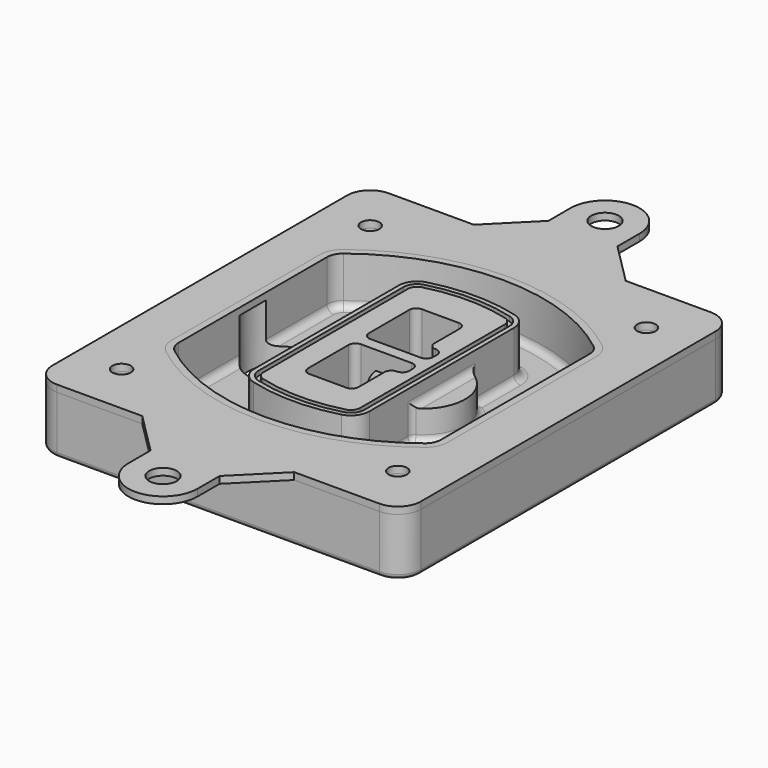
from build123d import *

# Parameters (mm, degrees)
F0_R      = 4
F1_DEPTH  = 25
F2_DEPTH  = 3
F3_DEPTH  = 18
F5_DEPTH  = 21
F6_DEPTH  = 2
F8_DEPTH  = 20
F9_DEPTH  = 16
F10_DEPTH = 25
F7_R      = 6
F7_R_2    = 4
F11_DEPTH = 6
F13_DEPTH = 9
F14_R     = 3
F15_R     = 2
F16_R     = 6
F16_R_2   = 4
F17_DEPTH = 3
F18_DEPTH = 3
F19_DEPTH = 3
F21_DEPTH = 3


with BuildPart() as f1:
    # F0 (on Top) → F1 (new body)
    with BuildSketch(Plane.XY):
        with BuildLine():
            ThreePointArc((-80, -80), (-77.0710678119, -87.0710678119), (-70, -90))
            Line((-70, -90), (70, -90))
            ThreePointArc((70, -90), (77.0710678119, -87.0710678119), (80, -80))
            Line((80, -80), (80, 80))
            ThreePointArc((80, 80), (77.0710678119, 87.0710678119), (70, 90))
            Line((70, 90), (-70, 90))
            ThreePointArc((-70, 90), (-77.0710678119, 87.0710678119), (-80, 80))
            Line((-80, 80), (-80, -80))
        make_face()
        with Locations((-60, -67.5)):
            Circle(F0_R, mode=Mode.SUBTRACT)
        with Locations((60, -67.5)):
            Circle(F0_R, mode=Mode.SUBTRACT)
        with Locations((-60, 67.5)):
            Circle(F0_R, mode=Mode.SUBTRACT)
        with BuildLine():
            ThreePointArc((-64, 40.2934422872), (-62.5820384798, 46.4328484224), (-58.6153846154, 51.3286200352))
            ThreePointArc((-58.6153846154, 51.3286200352), (0, 71.5), (58.6153846154, 51.3286200352))
            ThreePointArc((58.6153846154, 51.3286200352), (62.5820384798, 46.4328484224), (64, 40.2934422872))
            Line((64, 40.2934422872), (64, -40.2934422872))
            ThreePointArc((64, -40.2934422872), (62.5820384798, -46.4328484224), (58.6153846154, -51.3286200352))
            ThreePointArc((58.6153846154, -51.3286200352), (0, -71.5), (-58.6153846154, -51.3286200352))
            ThreePointArc((-58.6153846154, -51.3286200352), (-62.5820384798, -46.4328484224), (-64, -40.2934422872))
            Line((-64, -40.2934422872), (-64, 40.2934422872))
        make_face(mode=Mode.SUBTRACT)
        with Locations((60, 67.5)):
            Circle(F0_R, mode=Mode.SUBTRACT)
        with BuildLine():
            ThreePointArc((58.6153846154, 51.3286200352), (0, 71.5), (-58.6153846154, 51.3286200352))
            ThreePointArc((-58.6153846154, 51.3286200352), (-62.5820384798, 46.4328484224), (-64, 40.2934422872))
            Line((-64, 40.2934422872), (-64, -40.2934422872))
            ThreePointArc((-64, -40.2934422872), (-62.5820384798, -46.4328484224), (-58.6153846154, -51.3286200352))
            ThreePointArc((-58.6153846154, -51.3286200352), (0, -71.5), (58.6153846154, -51.3286200352))
            ThreePointArc((58.6153846154, -51.3286200352), (62.5820384798, -46.4328484224), (64, -40.2934422872))
            Line((64, -40.2934422872), (64, 40.2934422872))
            ThreePointArc((64, 40.2934422872), (62.5820384798, 46.4328484224), (58.6153846154, 51.3286200352))
        make_face()
        with BuildLine():
            Line((-60, -40.2934422872), (-60, 40.2934422872))
            ThreePointArc((-60, 40.2934422872), (-58.9871703427, 44.6787323838), (-56.1538461538, 48.1757121072))
            ThreePointArc((-56.1538461538, 48.1757121072), (0, 67.5), (56.1538461538, 48.1757121072))
            ThreePointArc((56.1538461538, 48.1757121072), (58.9871703427, 44.6787323838), (60, 40.2934422872))
            Line((60, 40.2934422872), (60, -40.2934422872))
            ThreePointArc((60, -40.2934422872), (58.9871703427, -44.6787323838), (56.1538461538, -48.1757121072))
            ThreePointArc((56.1538461538, -48.1757121072), (0, -67.5), (-56.1538461538, -48.1757121072))
            ThreePointArc((-56.1538461538, -48.1757121072), (-58.9871703427, -44.6787323838), (-60, -40.2934422872))
        make_face(mode=Mode.SUBTRACT)
        with BuildLine():
            ThreePointArc((-56.1538461538, 48.1757121072), (-58.9871703427, 44.6787323838), (-60, 40.2934422872))
            Line((-60, 40.2934422872), (-60, -40.2934422872))
            ThreePointArc((-60, -40.2934422872), (-58.9871703427, -44.6787323838), (-56.1538461538, -48.1757121072))
            ThreePointArc((-56.1538461538, -48.1757121072), (0, -67.5), (56.1538461538, -48.1757121072))
            ThreePointArc((56.1538461538, -48.1757121072), (58.9871703427, -44.6787323838), (60, -40.2934422872))
            Line((60, -40.2934422872), (60, 40.2934422872))
            ThreePointArc((60, 40.2934422872), (58.9871703427, 44.6787323838), (56.1538461538, 48.1757121072))
            ThreePointArc((56.1538461538, 48.1757121072), (0, 67.5), (-56.1538461538, 48.1757121072))
        make_face()
        with BuildLine():
            ThreePointArc((54.3076923077, 45.8110311612), (56.2910192399, 43.3631453548), (57, 40.2934422872))
            Line((57, 40.2934422872), (57, -40.2934422872))
            ThreePointArc((57, -40.2934422872), (56.2910192399, -43.3631453548), (54.3076923077, -45.8110311612))
            ThreePointArc((54.3076923077, -45.8110311612), (0, -64.5), (-54.3076923077, -45.8110311612))
            ThreePointArc((-54.3076923077, -45.8110311612), (-56.2910192399, -43.3631453548), (-57, -40.2934422872))
            Line((-57, -40.2934422872), (-57, 40.2934422872))
            ThreePointArc((-57, 40.2934422872), (-56.2910192399, 43.3631453548), (-54.3076923077, 45.8110311612))
            ThreePointArc((-54.3076923077, 45.8110311612), (0, 64.5), (54.3076923077, 45.8110311612))
        make_face(mode=Mode.SUBTRACT)
        with BuildLine():
            Line((57, -40.2934422872), (57, 40.2934422872))
            ThreePointArc((57, 40.2934422872), (56.2910192399, 43.3631453548), (54.3076923077, 45.8110311612))
            ThreePointArc((54.3076923077, 45.8110311612), (0, 64.5), (-54.3076923077, 45.8110311612))
            ThreePointArc((-54.3076923077, 45.8110311612), (-56.2910192399, 43.3631453548), (-57, 40.2934422872))
            Line((-57, 40.2934422872), (-57, -40.2934422872))
            ThreePointArc((-57, -40.2934422872), (-56.2910192399, -43.3631453548), (-54.3076923077, -45.8110311612))
            ThreePointArc((-54.3076923077, -45.8110311612), (0, -64.5), (54.3076923077, -45.8110311612))
            ThreePointArc((54.3076923077, -45.8110311612), (56.2910192399, -43.3631453548), (57, -40.2934422872))
        make_face()
    extrude(amount=-F1_DEPTH)

    # F0 (on Top) → F2 (join)
    with BuildSketch(Plane.XY):
        with BuildLine():
            ThreePointArc((-56.1538461538, 48.1757121072), (-58.9871703427, 44.6787323838), (-60, 40.2934422872))
            Line((-60, 40.2934422872), (-60, -40.2934422872))
            ThreePointArc((-60, -40.2934422872), (-58.9871703427, -44.6787323838), (-56.1538461538, -48.1757121072))
            ThreePointArc((-56.1538461538, -48.1757121072), (0, -67.5), (56.1538461538, -48.1757121072))
            ThreePointArc((56.1538461538, -48.1757121072), (58.9871703427, -44.6787323838), (60, -40.2934422872))
            Line((60, -40.2934422872), (60, 40.2934422872))
            ThreePointArc((60, 40.2934422872), (58.9871703427, 44.6787323838), (56.1538461538, 48.1757121072))
            ThreePointArc((56.1538461538, 48.1757121072), (0, 67.5), (-56.1538461538, 48.1757121072))
        make_face()
        with BuildLine():
            ThreePointArc((54.3076923077, 45.8110311612), (56.2910192399, 43.3631453548), (57, 40.2934422872))
            Line((57, 40.2934422872), (57, -40.2934422872))
            ThreePointArc((57, -40.2934422872), (56.2910192399, -43.3631453548), (54.3076923077, -45.8110311612))
            ThreePointArc((54.3076923077, -45.8110311612), (0, -64.5), (-54.3076923077, -45.8110311612))
            ThreePointArc((-54.3076923077, -45.8110311612), (-56.2910192399, -43.3631453548), (-57, -40.2934422872))
            Line((-57, -40.2934422872), (-57, 40.2934422872))
            ThreePointArc((-57, 40.2934422872), (-56.2910192399, 43.3631453548), (-54.3076923077, 45.8110311612))
            ThreePointArc((-54.3076923077, 45.8110311612), (0, 64.5), (54.3076923077, 45.8110311612))
        make_face(mode=Mode.SUBTRACT)
    extrude(amount=F2_DEPTH)

    # F0 (on Top) → F3 (cut)
    with BuildSketch(Plane.XY):
        with BuildLine():
            Line((57, -40.2934422872), (57, 40.2934422872))
            ThreePointArc((57, 40.2934422872), (56.2910192399, 43.3631453548), (54.3076923077, 45.8110311612))
            ThreePointArc((54.3076923077, 45.8110311612), (0, 64.5), (-54.3076923077, 45.8110311612))
            ThreePointArc((-54.3076923077, 45.8110311612), (-56.2910192399, 43.3631453548), (-57, 40.2934422872))
            Line((-57, 40.2934422872), (-57, -40.2934422872))
            ThreePointArc((-57, -40.2934422872), (-56.2910192399, -43.3631453548), (-54.3076923077, -45.8110311612))
            ThreePointArc((-54.3076923077, -45.8110311612), (0, -64.5), (54.3076923077, -45.8110311612))
            ThreePointArc((54.3076923077, -45.8110311612), (56.2910192399, -43.3631453548), (57, -40.2934422872))
        make_face()
    extrude(amount=-F3_DEPTH, mode=Mode.SUBTRACT)

    # F4 (on face) → F5 (join, through all)
    with BuildSketch(Plane.XY.offset(3)):
        with BuildLine():
            ThreePointArc((-25, -39.2465276821), (-23.3511545998, -44.1109737193), (-19.0842911877, -46.9702398883))
            ThreePointArc((-19.0842911877, -46.9702398883), (0, -49.5), (19.0842911877, -46.9702398883))
            ThreePointArc((19.0842911877, -46.9702398883), (23.3511545998, -44.1109737193), (25, -39.2465276821))
            Line((25, -39.2465276821), (25, 39.2465276821))
            ThreePointArc((25, 39.2465276821), (23.3511545998, 44.1109737193), (19.0842911877, 46.9702398883))
            ThreePointArc((19.0842911877, 46.9702398883), (0, 49.5), (-19.0842911877, 46.9702398883))
            ThreePointArc((-19.0842911877, 46.9702398883), (-23.3511545998, 44.1109737193), (-25, 39.2465276821))
            Line((-25, 39.2465276821), (-25, -39.2465276821))
        make_face()
        with BuildLine():
            ThreePointArc((18.5632183908, 45.0393118368), (21.7633659499, 42.89486221), (23, 39.2465276821))
            Line((23, 39.2465276821), (23, -39.2465276821))
            ThreePointArc((23, -39.2465276821), (21.7633659499, -42.89486221), (18.5632183908, -45.0393118368))
            ThreePointArc((18.5632183908, -45.0393118368), (0, -47.5), (-18.5632183908, -45.0393118368))
            ThreePointArc((-18.5632183908, -45.0393118368), (-21.7633659499, -42.89486221), (-23, -39.2465276821))
            Line((-23, -39.2465276821), (-23, 39.2465276821))
            ThreePointArc((-23, 39.2465276821), (-21.7633659499, 42.89486221), (-18.5632183908, 45.0393118368))
            ThreePointArc((-18.5632183908, 45.0393118368), (0, 47.5), (18.5632183908, 45.0393118368))
        make_face(mode=Mode.SUBTRACT)
        with BuildLine():
            Line((23, -39.2465276821), (23, 39.2465276821))
            ThreePointArc((23, 39.2465276821), (21.7633659499, 42.89486221), (18.5632183908, 45.0393118368))
            ThreePointArc((18.5632183908, 45.0393118368), (0, 47.5), (-18.5632183908, 45.0393118368))
            ThreePointArc((-18.5632183908, 45.0393118368), (-21.7633659499, 42.89486221), (-23, 39.2465276821))
            Line((-23, 39.2465276821), (-23, -39.2465276821))
            ThreePointArc((-23, -39.2465276821), (-21.7633659499, -42.89486221), (-18.5632183908, -45.0393118368))
            ThreePointArc((-18.5632183908, -45.0393118368), (0, -47.5), (18.5632183908, -45.0393118368))
            ThreePointArc((18.5632183908, -45.0393118368), (21.7633659499, -42.89486221), (23, -39.2465276821))
        make_face()
        with BuildLine():
            ThreePointArc((18.0421455939, 43.1083837852), (20.1755772999, 41.6787507007), (21, 39.2465276821))
            Line((21, 39.2465276821), (21, -39.2465276821))
            ThreePointArc((21, -39.2465276821), (20.1755772999, -41.6787507007), (18.0421455939, -43.1083837852))
            ThreePointArc((18.0421455939, -43.1083837852), (0, -45.5), (-18.0421455939, -43.1083837852))
            ThreePointArc((-18.0421455939, -43.1083837852), (-20.1755772999, -41.6787507007), (-21, -39.2465276821))
            Line((-21, -39.2465276821), (-21, 39.2465276821))
            ThreePointArc((-21, 39.2465276821), (-20.1755772999, 41.6787507007), (-18.0421455939, 43.1083837852))
            ThreePointArc((-18.0421455939, 43.1083837852), (0, 45.5), (18.0421455939, 43.1083837852))
        make_face(mode=Mode.SUBTRACT)
        with BuildLine():
            Line((21, -39.2465276821), (21, 39.2465276821))
            ThreePointArc((21, 39.2465276821), (20.1755772999, 41.6787507007), (18.0421455939, 43.1083837852))
            ThreePointArc((18.0421455939, 43.1083837852), (0, 45.5), (-18.0421455939, 43.1083837852))
            ThreePointArc((-18.0421455939, 43.1083837852), (-20.1755772999, 41.6787507007), (-21, 39.2465276821))
            Line((-21, 39.2465276821), (-21, -39.2465276821))
            ThreePointArc((-21, -39.2465276821), (-20.1755772999, -41.6787507007), (-18.0421455939, -43.1083837852))
            ThreePointArc((-18.0421455939, -43.1083837852), (0, -45.5), (18.0421455939, -43.1083837852))
            ThreePointArc((18.0421455939, -43.1083837852), (20.1755772999, -41.6787507007), (21, -39.2465276821))
        make_face()
        with BuildLine():
            Line((-8, -2.5), (14, -2.5))
            ThreePointArc((14, -2.5), (16.1213203436, -3.3786796564), (17, -5.5))
            Line((17, -5.5), (17, -7.5))
            ThreePointArc((17, -7.5), (16.1213203436, -9.6213203436), (14, -10.5))
            ThreePointArc((14, -10.5), (11.8786796564, -11.3786796564), (11, -13.5))
            Line((11, -13.5), (11, -27.5))
            ThreePointArc((11, -27.5), (10.1213203436, -29.6213203436), (8, -30.5))
            Line((8, -30.5), (-8, -30.5))
            ThreePointArc((-8, -30.5), (-10.1213203436, -29.6213203436), (-11, -27.5))
            Line((-11, -27.5), (-11, -5.5))
            ThreePointArc((-11, -5.5), (-10.1213203436, -3.3786796564), (-8, -2.5))
        make_face(mode=Mode.SUBTRACT)
        with BuildLine():
            ThreePointArc((-8, 2.5), (-10.1213203436, 3.3786796564), (-11, 5.5))
            Line((-11, 5.5), (-11, 27.5))
            ThreePointArc((-11, 27.5), (-10.1213203436, 29.6213203436), (-8, 30.5))
            Line((-8, 30.5), (8, 30.5))
            ThreePointArc((8, 30.5), (10.1213203436, 29.6213203436), (11, 27.5))
            Line((11, 27.5), (11, 13.5))
            ThreePointArc((11, 13.5), (11.8786796564, 11.3786796564), (14, 10.5))
            ThreePointArc((14, 10.5), (16.1213203436, 9.6213203436), (17, 7.5))
            Line((17, 7.5), (17, 5.5))
            ThreePointArc((17, 5.5), (16.1213203436, 3.3786796564), (14, 2.5))
            Line((14, 2.5), (-8, 2.5))
        make_face(mode=Mode.SUBTRACT)
    extrude(amount=-F5_DEPTH)

    # F4 (on face) → F6 (cut)
    with BuildSketch(Plane.XY.offset(3)):
        with BuildLine():
            Line((23, -39.2465276821), (23, 39.2465276821))
            ThreePointArc((23, 39.2465276821), (21.7633659499, 42.89486221), (18.5632183908, 45.0393118368))
            ThreePointArc((18.5632183908, 45.0393118368), (0, 47.5), (-18.5632183908, 45.0393118368))
            ThreePointArc((-18.5632183908, 45.0393118368), (-21.7633659499, 42.89486221), (-23, 39.2465276821))
            Line((-23, 39.2465276821), (-23, -39.2465276821))
            ThreePointArc((-23, -39.2465276821), (-21.7633659499, -42.89486221), (-18.5632183908, -45.0393118368))
            ThreePointArc((-18.5632183908, -45.0393118368), (0, -47.5), (18.5632183908, -45.0393118368))
            ThreePointArc((18.5632183908, -45.0393118368), (21.7633659499, -42.89486221), (23, -39.2465276821))
        make_face()
        with BuildLine():
            ThreePointArc((18.0421455939, 43.1083837852), (20.1755772999, 41.6787507007), (21, 39.2465276821))
            Line((21, 39.2465276821), (21, -39.2465276821))
            ThreePointArc((21, -39.2465276821), (20.1755772999, -41.6787507007), (18.0421455939, -43.1083837852))
            ThreePointArc((18.0421455939, -43.1083837852), (0, -45.5), (-18.0421455939, -43.1083837852))
            ThreePointArc((-18.0421455939, -43.1083837852), (-20.1755772999, -41.6787507007), (-21, -39.2465276821))
            Line((-21, -39.2465276821), (-21, 39.2465276821))
            ThreePointArc((-21, 39.2465276821), (-20.1755772999, 41.6787507007), (-18.0421455939, 43.1083837852))
            ThreePointArc((-18.0421455939, 43.1083837852), (0, 45.5), (18.0421455939, 43.1083837852))
        make_face(mode=Mode.SUBTRACT)
    extrude(amount=-F6_DEPTH, mode=Mode.SUBTRACT)

    # F7 (on face) → F8 (join)
    with BuildSketch(Plane(origin=(0, 0, -25), x_dir=(1, 0, 0), z_dir=(0, 0, -1))):
        with BuildLine():
            ThreePointArc((3.28842436, 0), (16.7567035675, 13.4682792075), (30.224982775, 0))
            Line((30.224982775, 0), (35.224982775, 0))
            ThreePointArc((35.224982775, 0), (16.7567035675, 18.4682792075), (-1.71157564, 0))
            Line((-1.71157564, 0), (3.28842436, 0))
        make_face()
        with BuildLine():
            Line((3.28842436, 0), (30.224982775, 0))
            ThreePointArc((30.224982775, 0), (16.7567035675, 13.4682792075), (3.28842436, 0))
        make_face()
        with BuildLine():
            ThreePointArc((3.28842436, 0), (16.7567035675, -13.4682792075), (30.224982775, 0))
            Line((30.224982775, 0), (3.28842436, 0))
        make_face()
        with BuildLine():
            Line((35.224982775, 0), (30.224982775, 0))
            ThreePointArc((30.224982775, 0), (16.7567035675, -13.4682792075), (3.28842436, 0))
            Line((3.28842436, 0), (-1.71157564, 0))
            ThreePointArc((-1.71157564, 0), (16.7567035675, -18.4682792075), (35.224982775, 0))
        make_face()
    extrude(amount=-F8_DEPTH)

    # F7 (on face) → F9 (cut)
    with BuildSketch(Plane(origin=(0, 0, -25), x_dir=(1, 0, 0), z_dir=(0, 0, -1))):
        with BuildLine():
            Line((3.28842436, 0), (30.224982775, 0))
            ThreePointArc((30.224982775, 0), (16.7567035675, 13.4682792075), (3.28842436, 0))
        make_face()
        with BuildLine():
            ThreePointArc((3.28842436, 0), (16.7567035675, -13.4682792075), (30.224982775, 0))
            Line((30.224982775, 0), (3.28842436, 0))
        make_face()
    extrude(amount=-F9_DEPTH, mode=Mode.SUBTRACT)

    # F7 (on face) → F10 (cut)
    with BuildSketch(Plane(origin=(0, 0, -25), x_dir=(1, 0, 0), z_dir=(0, 0, -1))):
        with BuildLine():
            Line((-59.0318229325, 0), (-32.0952645175, 0))
            ThreePointArc((-32.0952645175, 0), (-45.563543725, 13.4682792075), (-59.0318229325, 0))
        make_face()
        with BuildLine():
            ThreePointArc((-59.0318229325, 0), (-45.563543725, -13.4682792075), (-32.0952645175, 0))
            Line((-32.0952645175, 0), (-59.0318229325, 0))
        make_face()
    extrude(amount=-F10_DEPTH, mode=Mode.SUBTRACT)

    # F7 (on face) → F11 (cut)
    with BuildSketch(Plane(origin=(0, 0, -25), x_dir=(1, 0, 0), z_dir=(0, 0, -1))):
        with Locations((60, -67.5)):
            Circle(F7_R)
        with Locations((60, -67.5)):
            Circle(F7_R_2, mode=Mode.SUBTRACT)
        with Locations((60, -67.5)):
            Circle(F7_R)
        with Locations((60, -67.5)):
            Circle(F7_R_2, mode=Mode.SUBTRACT)
        with Locations((-60, -67.5)):
            Circle(F7_R)
        with Locations((-60, -67.5)):
            Circle(F7_R_2, mode=Mode.SUBTRACT)
        with Locations((-60, -67.5)):
            Circle(F7_R)
        with Locations((-60, -67.5)):
            Circle(F7_R_2, mode=Mode.SUBTRACT)
        with Locations((-60, 67.5)):
            Circle(F7_R)
        with Locations((-60, 67.5)):
            Circle(F7_R_2, mode=Mode.SUBTRACT)
        with Locations((-60, 67.5)):
            Circle(F7_R)
        with Locations((-60, 67.5)):
            Circle(F7_R_2, mode=Mode.SUBTRACT)
        with Locations((60, 67.5)):
            Circle(F7_R)
        with Locations((60, 67.5)):
            Circle(F7_R_2, mode=Mode.SUBTRACT)
        with Locations((60, 67.5)):
            Circle(F7_R)
        with Locations((60, 67.5)):
            Circle(F7_R_2, mode=Mode.SUBTRACT)
    extrude(amount=-F11_DEPTH, mode=Mode.SUBTRACT)

    # F12 (on face) → F13 (cut, through all)
    with BuildSketch(Plane(origin=(0, 0, -9), x_dir=(1, 0, 0), z_dir=(0, 0, -1))):
        with BuildLine():
            Line((11, 13.5), (11, 17.5481537753))
            ThreePointArc((11, 17.5481537753), (2.5696536419, 11.8239143813), (-1.5415842455, 2.5))
            Line((-1.5415842455, 2.5), (3.5224848595, 2.5))
            ThreePointArc((3.5224848595, 2.5), (6.1857188154, 8.3455872281), (11.2536447004, 12.2927168648))
            ThreePointArc((11.2536447004, 12.2927168648), (11.0640958889, 12.8831798879), (11, 13.5))
        make_face()
        with BuildLine():
            ThreePointArc((11.2536447004, -12.2927168648), (6.1857188154, -8.3455872281), (3.5224848595, -2.5))
            Line((3.5224848595, -2.5), (-1.5415842455, -2.5))
            ThreePointArc((-1.5415842455, -2.5), (2.5696536419, -11.8239143813), (11, -17.5481537753))
            Line((11, -17.5481537753), (11, -13.5))
            ThreePointArc((11, -13.5), (11.0640958889, -12.8831798879), (11.2536447004, -12.2927168648))
        make_face()
        with BuildLine():
            ThreePointArc((11.2536447004, 12.2927168648), (6.1857188154, 8.3455872281), (3.5224848595, 2.5))
            Line((3.5224848595, 2.5), (14, 2.5))
            ThreePointArc((14, 2.5), (16.1213203436, 3.3786796564), (17, 5.5))
            Line((17, 5.5), (17, 7.5))
            ThreePointArc((17, 7.5), (16.1213203436, 9.6213203436), (14, 10.5))
            ThreePointArc((14, 10.5), (12.3601599782, 10.9878446101), (11.2536447004, 12.2927168648))
        make_face()
        with BuildLine():
            Line((14, -2.5), (3.5224848595, -2.5))
            ThreePointArc((3.5224848595, -2.5), (6.1857188154, -8.3455872281), (11.2536447004, -12.2927168648))
            ThreePointArc((11.2536447004, -12.2927168648), (12.3601599782, -10.9878446101), (14, -10.5))
            ThreePointArc((14, -10.5), (16.1213203436, -9.6213203436), (17, -7.5))
            Line((17, -7.5), (17, -5.5))
            ThreePointArc((17, -5.5), (16.1213203436, -3.3786796564), (14, -2.5))
        make_face()
    extrude(amount=F13_DEPTH, mode=Mode.SUBTRACT)

    # F14
    f14_edges = [f1.edges().sort_by_distance(p)[0] for p in [
        (-57, -23.703476, -18),
        (-57, 23.703476, -18),
        (25, 0, -5),
        (25, 16.526506, -11.5),
        (25, -16.526506, -11.5),
        (25, -27.886517, -18),
        (35.224983, 0, -18),
    ]]
    fillet(f14_edges, radius=F14_R)

    # F15
    f15_edges = [f1.edges().sort_by_distance(p)[0] for p in [
        (0, -90, -25),
    ]]
    fillet(f15_edges, radius=F15_R)


with BuildPart() as f17:
    # F16 (on face) → F17 (new body, through all)
    with BuildSketch(Plane.XY):
        with BuildLine():
            Line((33, -90), (-33, -90))
            Line((-33, -90), (-15, -108))
            Line((-15, -108), (-15, -120))
            ThreePointArc((-15, -120), (0, -135), (15, -120))
            Line((15, -120), (15, -108))
            Line((15, -108), (33, -90))
        make_face()
        with Locations((0, -120)):
            Circle(F16_R, mode=Mode.SUBTRACT)
        with BuildLine():
            Line((70, 90), (33, 90))
            Line((33, 90), (-33, 90))
            Line((-33, 90), (-70, 90))
            ThreePointArc((-70, 90), (-77.0710678119, 87.0710678119), (-80, 80))
            Line((-80, 80), (-80, -80))
            ThreePointArc((-80, -80), (-77.0710678119, -87.0710678119), (-70, -90))
            Line((-70, -90), (-33, -90))
            Line((-33, -90), (33, -90))
            Line((33, -90), (70, -90))
            ThreePointArc((70, -90), (77.0710678119, -87.0710678119), (80, -80))
            Line((80, -80), (80, 0))
            Line((80, 0), (80, 80))
            ThreePointArc((80, 80), (77.0710678119, 87.0710678119), (70, 90))
        make_face()
        with Locations((-60, -67.5)):
            Circle(F16_R_2, mode=Mode.SUBTRACT)
        with Locations((60, -67.5)):
            Circle(F16_R_2, mode=Mode.SUBTRACT)
        with Locations((-60, 67.5)):
            Circle(F16_R_2, mode=Mode.SUBTRACT)
        with BuildLine():
            Line((-60, -40.2934422872), (-60, 40.2934422872))
            ThreePointArc((-60, 40.2934422872), (-58.9871703427, 44.6787323838), (-56.1538461538, 48.1757121072))
            ThreePointArc((-56.1538461538, 48.1757121072), (0, 67.5), (56.1538461538, 48.1757121072))
            ThreePointArc((56.1538461538, 48.1757121072), (58.9871703427, 44.6787323838), (60, 40.2934422872))
            Line((60, 40.2934422872), (60, -40.2934422872))
            ThreePointArc((60, -40.2934422872), (58.9871703427, -44.6787323838), (56.1538461538, -48.1757121072))
            ThreePointArc((56.1538461538, -48.1757121072), (0, -67.5), (-56.1538461538, -48.1757121072))
            ThreePointArc((-56.1538461538, -48.1757121072), (-58.9871703427, -44.6787323838), (-60, -40.2934422872))
        make_face(mode=Mode.SUBTRACT)
        with Locations((60, 67.5)):
            Circle(F16_R_2, mode=Mode.SUBTRACT)
        with BuildLine():
            Line((15, 108), (15, 120))
            ThreePointArc((15, 120), (0, 135), (-15, 120))
            Line((-15, 120), (-15, 108))
            Line((-15, 108), (-33, 90))
            Line((-33, 90), (33, 90))
            Line((33, 90), (15, 108))
        make_face()
        with Locations((0, 120)):
            Circle(F16_R, mode=Mode.SUBTRACT)
    extrude(amount=F17_DEPTH)


with BuildPart() as f18:
    # F16 (on face) → F18 (new body, through all)
    with BuildSketch(Plane.XY):
        with BuildLine():
            Line((70, 90), (33, 90))
            Line((33, 90), (-33, 90))
            Line((-33, 90), (-70, 90))
            ThreePointArc((-70, 90), (-77.0710678119, 87.0710678119), (-80, 80))
            Line((-80, 80), (-80, -80))
            ThreePointArc((-80, -80), (-77.0710678119, -87.0710678119), (-70, -90))
            Line((-70, -90), (-33, -90))
            Line((-33, -90), (33, -90))
            Line((33, -90), (70, -90))
            ThreePointArc((70, -90), (77.0710678119, -87.0710678119), (80, -80))
            Line((80, -80), (80, 0))
            Line((80, 0), (80, 80))
            ThreePointArc((80, 80), (77.0710678119, 87.0710678119), (70, 90))
        make_face()
        with Locations((-60, -67.5)):
            Circle(F16_R_2, mode=Mode.SUBTRACT)
        with Locations((60, -67.5)):
            Circle(F16_R_2, mode=Mode.SUBTRACT)
        with Locations((-60, 67.5)):
            Circle(F16_R_2, mode=Mode.SUBTRACT)
        with BuildLine():
            Line((-60, -40.2934422872), (-60, 40.2934422872))
            ThreePointArc((-60, 40.2934422872), (-58.9871703427, 44.6787323838), (-56.1538461538, 48.1757121072))
            ThreePointArc((-56.1538461538, 48.1757121072), (0, 67.5), (56.1538461538, 48.1757121072))
            ThreePointArc((56.1538461538, 48.1757121072), (58.9871703427, 44.6787323838), (60, 40.2934422872))
            Line((60, 40.2934422872), (60, -40.2934422872))
            ThreePointArc((60, -40.2934422872), (58.9871703427, -44.6787323838), (56.1538461538, -48.1757121072))
            ThreePointArc((56.1538461538, -48.1757121072), (0, -67.5), (-56.1538461538, -48.1757121072))
            ThreePointArc((-56.1538461538, -48.1757121072), (-58.9871703427, -44.6787323838), (-60, -40.2934422872))
        make_face(mode=Mode.SUBTRACT)
        with Locations((60, 67.5)):
            Circle(F16_R_2, mode=Mode.SUBTRACT)
        with BuildLine():
            Line((15, 108), (15, 120))
            ThreePointArc((15, 120), (0, 135), (-15, 120))
            Line((-15, 120), (-15, 108))
            Line((-15, 108), (-33, 90))
            Line((-33, 90), (33, 90))
            Line((33, 90), (15, 108))
        make_face()
        with Locations((0, 120)):
            Circle(F16_R, mode=Mode.SUBTRACT)
        with BuildLine():
            Line((33, -90), (-33, -90))
            Line((-33, -90), (-15, -108))
            Line((-15, -108), (-15, -120))
            ThreePointArc((-15, -120), (0, -135), (15, -120))
            Line((15, -120), (15, -108))
            Line((15, -108), (33, -90))
        make_face()
        with Locations((0, -120)):
            Circle(F16_R, mode=Mode.SUBTRACT)
    extrude(amount=F18_DEPTH)


with BuildPart() as f19:
    # F16 (on face) → F19 (new body, through all)
    with BuildSketch(Plane.XY):
        with BuildLine():
            Line((70, 90), (33, 90))
            Line((33, 90), (-33, 90))
            Line((-33, 90), (-70, 90))
            ThreePointArc((-70, 90), (-77.0710678119, 87.0710678119), (-80, 80))
            Line((-80, 80), (-80, -80))
            ThreePointArc((-80, -80), (-77.0710678119, -87.0710678119), (-70, -90))
            Line((-70, -90), (-33, -90))
            Line((-33, -90), (33, -90))
            Line((33, -90), (70, -90))
            ThreePointArc((70, -90), (77.0710678119, -87.0710678119), (80, -80))
            Line((80, -80), (80, 0))
            Line((80, 0), (80, 80))
            ThreePointArc((80, 80), (77.0710678119, 87.0710678119), (70, 90))
        make_face()
        with Locations((-60, -67.5)):
            Circle(F16_R_2, mode=Mode.SUBTRACT)
        with Locations((60, -67.5)):
            Circle(F16_R_2, mode=Mode.SUBTRACT)
        with Locations((-60, 67.5)):
            Circle(F16_R_2, mode=Mode.SUBTRACT)
        with BuildLine():
            Line((-60, -40.2934422872), (-60, 40.2934422872))
            ThreePointArc((-60, 40.2934422872), (-58.9871703427, 44.6787323838), (-56.1538461538, 48.1757121072))
            ThreePointArc((-56.1538461538, 48.1757121072), (0, 67.5), (56.1538461538, 48.1757121072))
            ThreePointArc((56.1538461538, 48.1757121072), (58.9871703427, 44.6787323838), (60, 40.2934422872))
            Line((60, 40.2934422872), (60, -40.2934422872))
            ThreePointArc((60, -40.2934422872), (58.9871703427, -44.6787323838), (56.1538461538, -48.1757121072))
            ThreePointArc((56.1538461538, -48.1757121072), (0, -67.5), (-56.1538461538, -48.1757121072))
            ThreePointArc((-56.1538461538, -48.1757121072), (-58.9871703427, -44.6787323838), (-60, -40.2934422872))
        make_face(mode=Mode.SUBTRACT)
        with Locations((60, 67.5)):
            Circle(F16_R_2, mode=Mode.SUBTRACT)
        with BuildLine():
            Line((33, -90), (-33, -90))
            Line((-33, -90), (-15, -108))
            Line((-15, -108), (-15, -120))
            ThreePointArc((-15, -120), (0, -135), (15, -120))
            Line((15, -120), (15, -108))
            Line((15, -108), (33, -90))
        make_face()
        with Locations((0, -120)):
            Circle(F16_R, mode=Mode.SUBTRACT)
        with BuildLine():
            Line((15, 108), (15, 120))
            ThreePointArc((15, 120), (0, 135), (-15, 120))
            Line((-15, 120), (-15, 108))
            Line((-15, 108), (-33, 90))
            Line((-33, 90), (33, 90))
            Line((33, 90), (15, 108))
        make_face()
        with Locations((0, 120)):
            Circle(F16_R, mode=Mode.SUBTRACT)
    extrude(amount=F19_DEPTH)


with BuildPart() as f21:
    # F16 (on face) → F21 (new body, through all)
    with BuildSketch(Plane.XY):
        with BuildLine():
            Line((70, 90), (33, 90))
            Line((33, 90), (-33, 90))
            Line((-33, 90), (-70, 90))
            ThreePointArc((-70, 90), (-77.0710678119, 87.0710678119), (-80, 80))
            Line((-80, 80), (-80, -80))
            ThreePointArc((-80, -80), (-77.0710678119, -87.0710678119), (-70, -90))
            Line((-70, -90), (-33, -90))
            Line((-33, -90), (33, -90))
            Line((33, -90), (70, -90))
            ThreePointArc((70, -90), (77.0710678119, -87.0710678119), (80, -80))
            Line((80, -80), (80, 0))
            Line((80, 0), (80, 80))
            ThreePointArc((80, 80), (77.0710678119, 87.0710678119), (70, 90))
        make_face()
        with Locations((-60, -67.5)):
            Circle(F16_R_2, mode=Mode.SUBTRACT)
        with Locations((60, -67.5)):
            Circle(F16_R_2, mode=Mode.SUBTRACT)
        with Locations((-60, 67.5)):
            Circle(F16_R_2, mode=Mode.SUBTRACT)
        with BuildLine():
            Line((-60, -40.2934422872), (-60, 40.2934422872))
            ThreePointArc((-60, 40.2934422872), (-58.9871703427, 44.6787323838), (-56.1538461538, 48.1757121072))
            ThreePointArc((-56.1538461538, 48.1757121072), (0, 67.5), (56.1538461538, 48.1757121072))
            ThreePointArc((56.1538461538, 48.1757121072), (58.9871703427, 44.6787323838), (60, 40.2934422872))
            Line((60, 40.2934422872), (60, -40.2934422872))
            ThreePointArc((60, -40.2934422872), (58.9871703427, -44.6787323838), (56.1538461538, -48.1757121072))
            ThreePointArc((56.1538461538, -48.1757121072), (0, -67.5), (-56.1538461538, -48.1757121072))
            ThreePointArc((-56.1538461538, -48.1757121072), (-58.9871703427, -44.6787323838), (-60, -40.2934422872))
        make_face(mode=Mode.SUBTRACT)
        with Locations((60, 67.5)):
            Circle(F16_R_2, mode=Mode.SUBTRACT)
        with BuildLine():
            Line((15, 108), (15, 120))
            ThreePointArc((15, 120), (0, 135), (-15, 120))
            Line((-15, 120), (-15, 108))
            Line((-15, 108), (-33, 90))
            Line((-33, 90), (33, 90))
            Line((33, 90), (15, 108))
        make_face()
        with Locations((0, 120)):
            Circle(F16_R, mode=Mode.SUBTRACT)
        with BuildLine():
            Line((33, -90), (-33, -90))
            Line((-33, -90), (-15, -108))
            Line((-15, -108), (-15, -120))
            ThreePointArc((-15, -120), (0, -135), (15, -120))
            Line((15, -120), (15, -108))
            Line((15, -108), (33, -90))
        make_face()
        with Locations((0, -120)):
            Circle(F16_R, mode=Mode.SUBTRACT)
    extrude(amount=F21_DEPTH)


solid = Compound([f1.part, f17.part, f18.part, f21.part])
